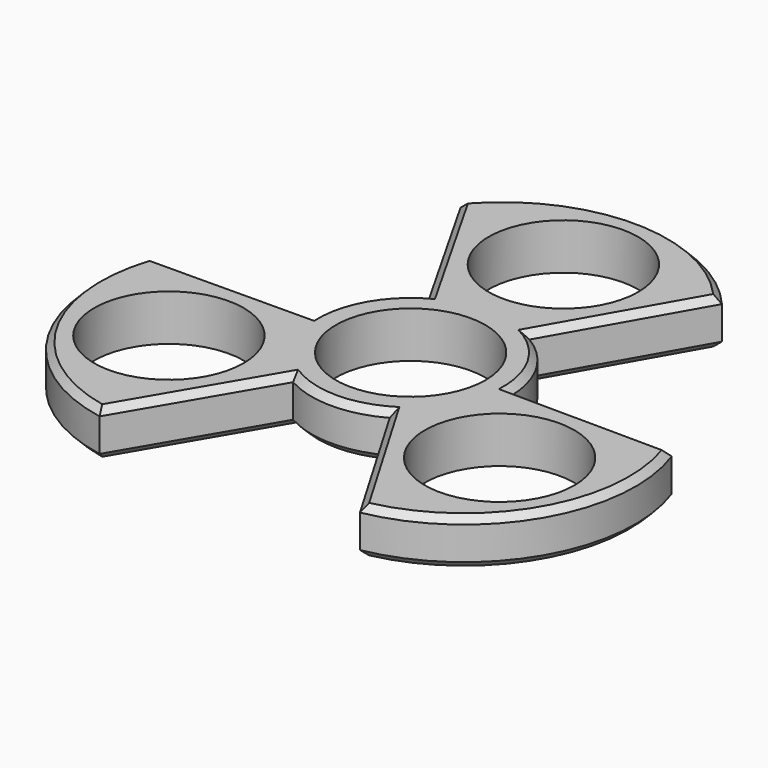
from build123d import *

# Parameters (mm, degrees)
F0_R     = 11.3175
F1_DEPTH = 7
F2_SIZE  = 1


with BuildPart() as f1:
    # F0 (on Top) → F1 (new body)
    with BuildSketch(Plane.XY):
        with BuildLine():
            ThreePointArc((7.3127307082, -13.0967159849), (12.9362081118, -7.5930573347), (15, 0))
            ThreePointArc((15, 0), (14.9996135208, 0.1076764883), (14.9984541032, 0.2153474281))
            ThreePointArc((14.9984541032, 0.2153474281), (12.9903810568, 7.5), (7.6857233949, 12.8813685568))
            ThreePointArc((7.6857233949, 12.8813685568), (0, 15), (-7.6857233949, 12.8813685568))
            ThreePointArc((-7.6857233949, 12.8813685568), (-12.9903810568, 7.5), (-14.9984541032, 0.2153474281))
            ThreePointArc((-14.9984541032, 0.2153474281), (-12.9903810568, -7.5), (-7.3127307082, -13.0967159849))
            ThreePointArc((-7.3127307082, -13.0967159849), (0, -15), (7.3127307082, -13.0967159849))
        make_face()
        Circle(F0_R, mode=Mode.SUBTRACT)
        with BuildLine():
            ThreePointArc((14.9984541032, 0.2153474281), (14.9996135208, 0.1076764883), (15, 0))
            ThreePointArc((15, 0), (12.9362081118, -7.5930573347), (7.3127307082, -13.0967159849))
            Line((7.3127307082, -13.0967159849), (19.70522071, -34.2219280102))
            ThreePointArc((19.70522071, -34.2219280102), (37.513895389, -21.6586576012), (39.4896693783, 0.0457422831))
            Line((39.4896693783, 0.0457422831), (14.9984541032, 0.2153474281))
        make_face()
        with Locations((25.0325276728, -14.4525365904)):
            Circle(F0_R, mode=Mode.SUBTRACT)
        with BuildLine():
            ThreePointArc((-7.6857233949, 12.8813685568), (0, 15), (7.6857233949, 12.8813685568))
            Line((7.6857233949, 12.8813685568), (19.7844486684, 34.1761857271))
            ThreePointArc((19.7844486684, 34.1761857271), (0, 43.3173152024), (-19.7844486684, 34.1761857271))
            Line((-19.7844486684, 34.1761857271), (-7.6857233949, 12.8813685568))
        make_face()
        with Locations((0, 28.9050731808)):
            Circle(F0_R, mode=Mode.SUBTRACT)
        with BuildLine():
            Line((-19.70522071, -34.2219280102), (-7.3127307082, -13.0967159849))
            ThreePointArc((-7.3127307082, -13.0967159849), (-12.9903810568, -7.5), (-14.9984541032, 0.2153474281))
            Line((-14.9984541032, 0.2153474281), (-39.4896693783, 0.0457422831))
            ThreePointArc((-39.4896693783, 0.0457422831), (-37.513895389, -21.6586576012), (-19.70522071, -34.2219280102))
        make_face()
        with Locations((-25.0325276728, -14.4525365904)):
            Circle(F0_R, mode=Mode.SUBTRACT)
    extrude(amount=F1_DEPTH)

    # F2
    f2_edges = [f1.edges().sort_by_distance(p)[0] for p in [
        (-27.244062, 0.130545, 7),
        (-13.735086, 23.528777, 7),
        (27.244062, 0.130545, 7),
        (13.735086, 23.528777, 7),
        (13.508976, -23.659322, 7),
        (-13.508976, -23.659322, 7),
        (-37.513895, -21.658658, 7),
        (37.513895, -21.658658, 7),
        (0, 43.317315, 7),
        (-12.990381, 7.5, 7),
        (12.990381, 7.5, 7),
        (0, -15, 7),
        (0, -15, 0),
        (13.508976, -23.659322, 0),
        (-13.508976, -23.659322, 0),
        (37.513895, -21.658658, 0),
        (27.244062, 0.130545, 0),
        (12.990381, 7.5, 0),
        (13.735086, 23.528777, 0),
        (0, 43.317315, 0),
        (-13.735086, 23.528777, 0),
        (-12.990381, 7.5, 0),
        (-27.244062, 0.130545, 0),
        (-37.513895, -21.658658, 0),
    ]]
    chamfer(f2_edges, length=F2_SIZE)


solid = f1.part
